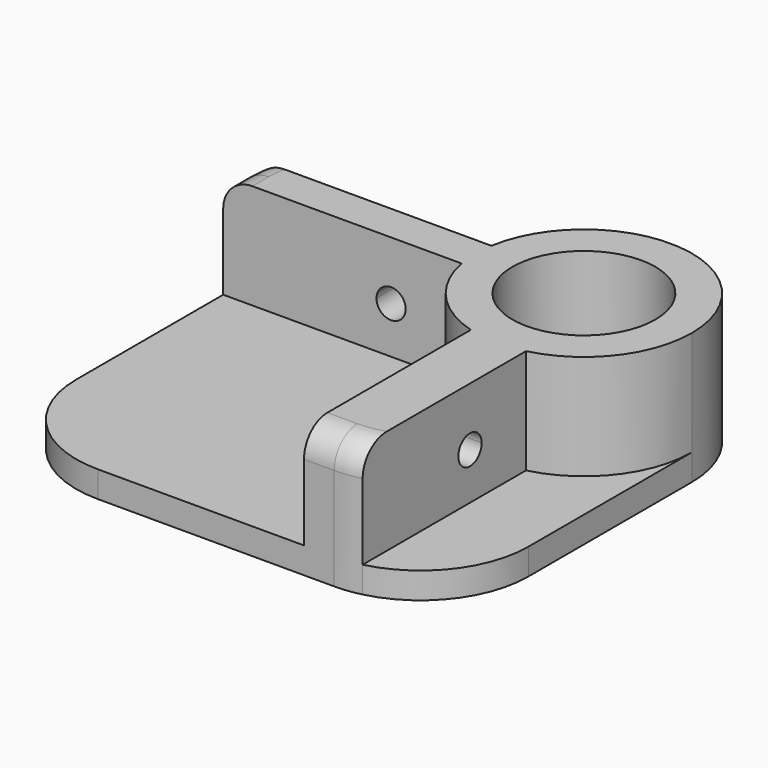
from build123d import *

# Parameters (mm, degrees)
F0_R     = 13.35
F1_DEPTH = 4.5
F2_DEPTH = 18
F5_DEPTH = 63.468562
F6_DEPTH = 56.501
F7_R     = 5
F8_R     = 13.35
F8_R_2   = 12.25
F9_DEPTH = 22.5


with BuildPart() as f1:
    # F0 (on Top) → F1 (new body)
    with BuildSketch(Plane.XY):
        with BuildLine():
            ThreePointArc((6.94, -57.959298), (17.066915, -51.404166), (21, -40))
            Line((21, -40), (21, -5))
            ThreePointArc((21, -5), (17.066915, -16.404166), (6.94, -22.959298))
            Line((6.94, -22.959298), (6.94, -57.959298))
        make_face()
        with Locations((2.5, -5)):
            Circle(F0_R)
        with BuildLine():
            ThreePointArc((6.94, -22.959298), (17.066915, -16.404166), (21, -5))
            ThreePointArc((21, -5), (16.086734, 7.555902), (3.956684, 13.442561))
            Line((3.956684, 13.442561), (1.066985, 13.444416))
            ThreePointArc((1.066985, 13.444416), (-10.011528, 8.627607), (-15.755136, -2))
            ThreePointArc((-15.755136, -2), (-15.998257, -5.25395), (-15.665902, -8.5))
            ThreePointArc((-15.665902, -8.5), (-11.178256, -17.456136), (-2.68, -22.76))
            ThreePointArc((-2.68, -22.76), (2.116816, -23.496031), (6.94, -22.959298))
        make_face()
        with Locations((2.5, -5)):
            Circle(F0_R, mode=Mode.SUBTRACT)
        with BuildLine():
            ThreePointArc((2.5, -58.5), (4.736401, -58.364327), (6.94, -57.959298))
            Line((6.94, -57.959298), (6.94, -22.959298))
            ThreePointArc((6.94, -22.959298), (2.116816, -23.496031), (-2.68, -22.76))
            Line((-2.68, -22.76), (-2.68, -58.5))
            Line((-2.68, -58.5), (2.5, -58.5))
        make_face()
        with BuildLine():
            Line((1.066985, 13.444416), (3.956684, 13.442561))
            ThreePointArc((3.956684, 13.442561), (2.511871, 13.499996), (1.066985, 13.444416))
        make_face()
        with BuildLine():
            ThreePointArc((-15.755136, -2), (-10.011528, 8.627607), (1.066985, 13.444416))
            Line((1.066985, 13.444416), (-38.015691, 13.469493))
            ThreePointArc((-38.015691, 13.469493), (-49.985176, 9.085639), (-56.277659, -2))
            Line((-56.277659, -2), (-15.755136, -2))
        make_face()
        with BuildLine():
            Line((-2.68, -58.5), (-2.68, -22.76))
            ThreePointArc((-2.68, -22.76), (-11.178256, -17.456136), (-15.665902, -8.5))
            Line((-15.665902, -8.5), (-56.527562, -8.5))
            Line((-56.527562, -8.5), (-56.527562, -40))
            ThreePointArc((-56.527562, -40), (-51.109037, -53.081475), (-38.027562, -58.5))
            Line((-38.027562, -58.5), (-2.68, -58.5))
        make_face()
        with BuildLine():
            ThreePointArc((-15.665902, -8.5), (-15.998257, -5.25395), (-15.755136, -2))
            Line((-15.755136, -2), (-56.277659, -2))
            ThreePointArc((-56.277659, -2), (-56.46498, -3.510108), (-56.527562, -5.030503))
            Line((-56.527562, -5.030503), (-56.527562, -8.5))
            Line((-56.527562, -8.5), (-15.665902, -8.5))
        make_face()
    extrude(amount=-F1_DEPTH)

    # F0 (on Top) → F2 (join)
    with BuildSketch(Plane.XY):
        with BuildLine():
            ThreePointArc((2.5, -58.5), (4.736401, -58.364327), (6.94, -57.959298))
            Line((6.94, -57.959298), (6.94, -22.959298))
            ThreePointArc((6.94, -22.959298), (2.116816, -23.496031), (-2.68, -22.76))
            Line((-2.68, -22.76), (-2.68, -58.5))
            Line((-2.68, -58.5), (2.5, -58.5))
        make_face()
        with BuildLine():
            ThreePointArc((6.94, -22.959298), (17.066915, -16.404166), (21, -5))
            ThreePointArc((21, -5), (16.086734, 7.555902), (3.956684, 13.442561))
            Line((3.956684, 13.442561), (1.066985, 13.444416))
            ThreePointArc((1.066985, 13.444416), (-10.011528, 8.627607), (-15.755136, -2))
            ThreePointArc((-15.755136, -2), (-15.998257, -5.25395), (-15.665902, -8.5))
            ThreePointArc((-15.665902, -8.5), (-11.178256, -17.456136), (-2.68, -22.76))
            ThreePointArc((-2.68, -22.76), (2.116816, -23.496031), (6.94, -22.959298))
        make_face()
        with Locations((2.5, -5)):
            Circle(F0_R, mode=Mode.SUBTRACT)
        with BuildLine():
            ThreePointArc((-15.665902, -8.5), (-15.998257, -5.25395), (-15.755136, -2))
            Line((-15.755136, -2), (-56.277659, -2))
            ThreePointArc((-56.277659, -2), (-56.46498, -3.510108), (-56.527562, -5.030503))
            Line((-56.527562, -5.030503), (-56.527562, -8.5))
            Line((-56.527562, -8.5), (-15.665902, -8.5))
        make_face()
    extrude(amount=F2_DEPTH)

    # F3 (on face) → F5 (cut, through all)
    with BuildSketch(Plane.YZ.offset(6.94)):
        with BuildLine():
            ThreePointArc((-32.459298, 8), (-33.191531, 9.767767), (-34.959298, 10.5))
            ThreePointArc((-34.959298, 10.5), (-36.727065, 6.232233), (-32.459298, 8))
        make_face()
    extrude(amount=-F5_DEPTH, mode=Mode.SUBTRACT)

    # F4 (on face) → F6 (cut, through all)
    with BuildSketch(Plane(origin=(0, -2, 0), x_dir=(-1, 0, 0), z_dir=(0, 1, 0))):
        with BuildLine():
            ThreePointArc((30.255136, 8), (29.522903, 9.767767), (27.755136, 10.5))
            ThreePointArc((27.755136, 10.5), (25.987369, 6.232233), (30.255136, 8))
        make_face()
    extrude(amount=-F6_DEPTH, mode=Mode.SUBTRACT)

    # F7
    f7_edges = [f1.edges().sort_by_distance(p)[0] for p in [
        (-56.527562, -6.765252, 18),
        (-0.09, -58.5, 18),
        (4.736401, -58.364327, 18),
    ]]
    fillet(f7_edges, radius=F7_R)

    # F8 (on face) → F9 (join, through all)
    with BuildSketch(Plane.XY.offset(18)):
        with Locations((2.5, -5)):
            Circle(F8_R)
        with Locations((2.5, -5)):
            Circle(F8_R_2, mode=Mode.SUBTRACT)
    extrude(amount=-F9_DEPTH)


solid = f1.part
